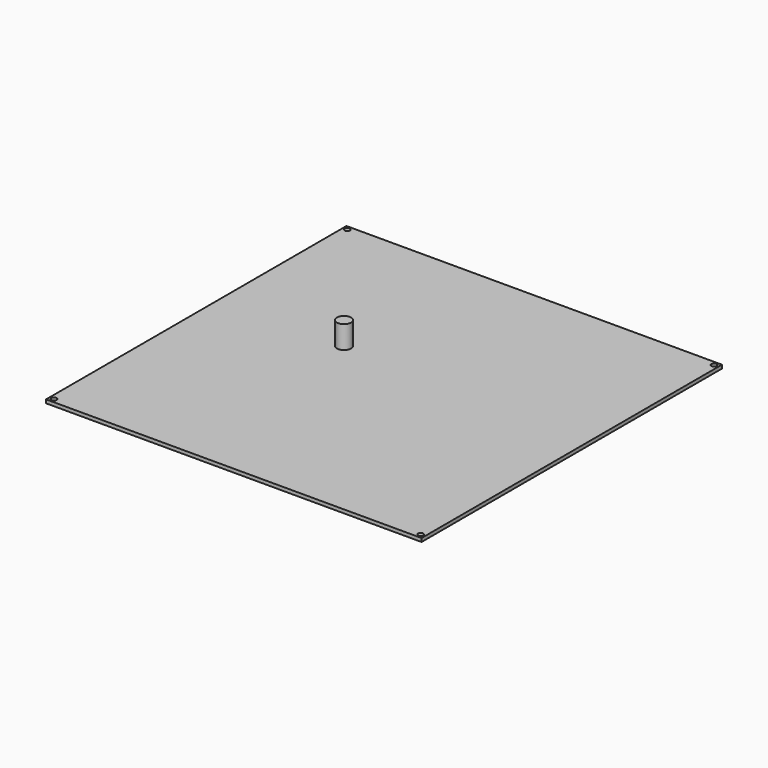
from build123d import *

# Parameters (mm, degrees)
F0_W     = 214
F0_H     = 214
F1_DEPTH = 2
F2_D     = 3
F3_R     = 4
F4_DEPTH = 15


with BuildPart() as f1:
    # F0 (on Top) → F1 (new body)
    with BuildSketch(Plane.XY):
        Rectangle(F0_W, F0_H)
    extrude(amount=F1_DEPTH)

    # F2 (through all)
    with Locations(Plane(origin=(0, 0, 0), x_dir=(1, 0, 0), z_dir=(0, 0, -1))):
        with Locations((-104.5, 104.5), (104.5, 104.5), (-104.5, -104.5), (104.5, -104.5)):
            Hole(F2_D / 2)


with BuildPart() as f4:
    # F3 (on Top) → F4 (new body)
    with BuildSketch(Plane.XY):
        with Locations((-35.611279, 16.001087)):
            Circle(F3_R)
    extrude(amount=F4_DEPTH)


solid = Compound([f1.part, f4.part])
